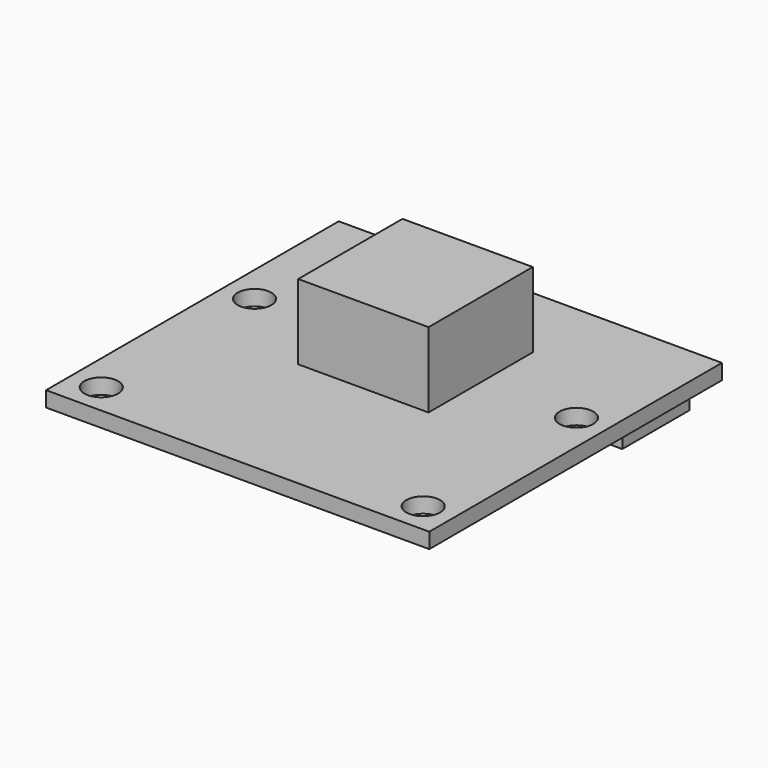
from build123d import *

# Parameters (mm, degrees)
F0_W     = 25
F0_H     = 23.862
F0_R     = 1.1
F1_DEPTH = 1
F2_W     = 20.8
F2_H     = 5.5
F3_DEPTH = 2.4
F4_W     = 8.5
F4_H     = 8.5
F5_DEPTH = 4.9


with BuildPart() as f1:
    # F0 (on Top) → F1 (new body)
    with BuildSketch(Plane.XY):
        with Locations((12.5, 11.931)):
            Rectangle(F0_W, F0_H)
        with Locations((2, 2)):
            Circle(F0_R, mode=Mode.SUBTRACT)
        with Locations((23, 2)):
            Circle(F0_R, mode=Mode.SUBTRACT)
        with Locations((2, 14.5)):
            Circle(F0_R, mode=Mode.SUBTRACT)
        with Locations((23, 14.5)):
            Circle(F0_R, mode=Mode.SUBTRACT)
    extrude(amount=F1_DEPTH)

    # F2 (on face) → F3 (join)
    with BuildSketch(Plane(origin=(0, 0, 0), x_dir=(1, 0, 0), z_dir=(0, 0, -1))):
        with Locations((12.5, -21.112)):
            Rectangle(F2_W, F2_H)
    extrude(amount=F3_DEPTH)

    # F4 (on face) → F5 (join)
    with BuildSketch(Plane.XY.offset(1)):
        with Locations((12.5, 14.5)):
            Rectangle(F4_W, F4_H)
    extrude(amount=F5_DEPTH)


solid = f1.part
